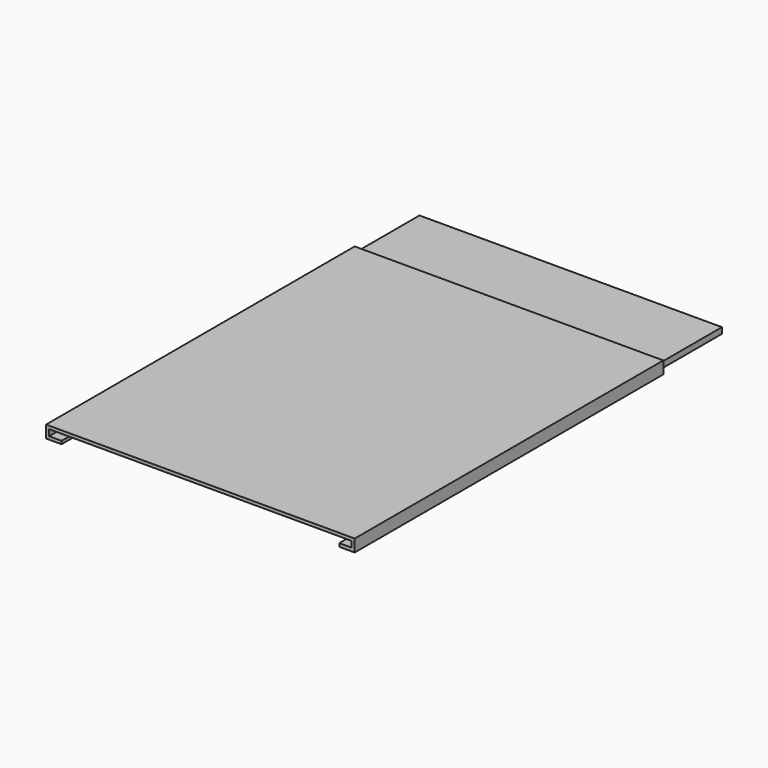
from build123d import *

# Parameters (mm, degrees)
F1_DEPTH = 100
F2_DEPTH = 25
F3_DEPTH = 125


with BuildPart() as f1:
    # F0 (on Front) → F1 (new body)
    with BuildSketch(Plane.XZ):
        Polygon((-45, -2), (45, -2), (45, -0.92414), (49, -0.92414), (49, 1), (-49, 1), (-49, -1.014037), (-45, -1.014037), align=None)
        Polygon((45, -2), (50, -2), (50, 2), (-50, 2), (-50, -2), (-45, -2), (-45, -1.014037), (-49, -1.014037), (-49, 1), (49, 1), (49, -0.92414), (45, -0.92414), align=None)
    extrude(amount=F1_DEPTH)

    # F0 (on Front) → F2 (join)
    with BuildSketch(Plane.XZ):
        Polygon((-45, -2), (45, -2), (45, -0.92414), (49, -0.92414), (49, 1), (-49, 1), (-49, -1.014037), (-45, -1.014037), align=None)
    extrude(amount=-F2_DEPTH)


with BuildPart() as f3:
    # F0 (on Front) → F3 (new body)
    with BuildSketch(Plane.XZ):
        Polygon((45, -2), (50, -2), (50, 2), (-50, 2), (-50, -2), (-45, -2), (-45, -1.014037), (-49, -1.014037), (-49, 1), (49, 1), (49, -0.92414), (45, -0.92414), align=None)
    extrude(amount=F3_DEPTH)


solid = Compound([f1.part, f3.part])
